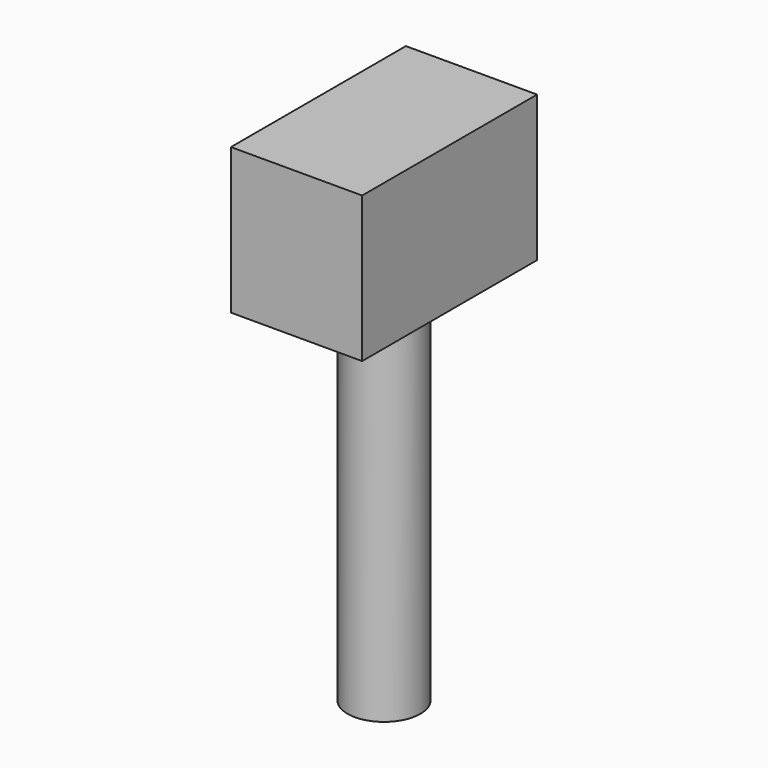
from build123d import *

# Parameters (mm, degrees)
F0_W     = 6.35
F0_H     = 63.5
F2_W     = 22.86
F2_H     = 38.1
F3_DEPTH = 25.4


with BuildPart() as f1:
    # F0 (on Front) → F1 (revolve)
    with BuildSketch(Plane.XZ):
        with Locations((3.175, 31.75)):
            Rectangle(F0_W, F0_H)
    revolve(axis=Axis((0, 0, 31.75), (0, 0, 1)))

    # F2 (on face) → F3 (join)
    with BuildSketch(Plane.XY.offset(63.5)):
        Rectangle(F2_W, F2_H)
    extrude(amount=F3_DEPTH)


solid = f1.part
